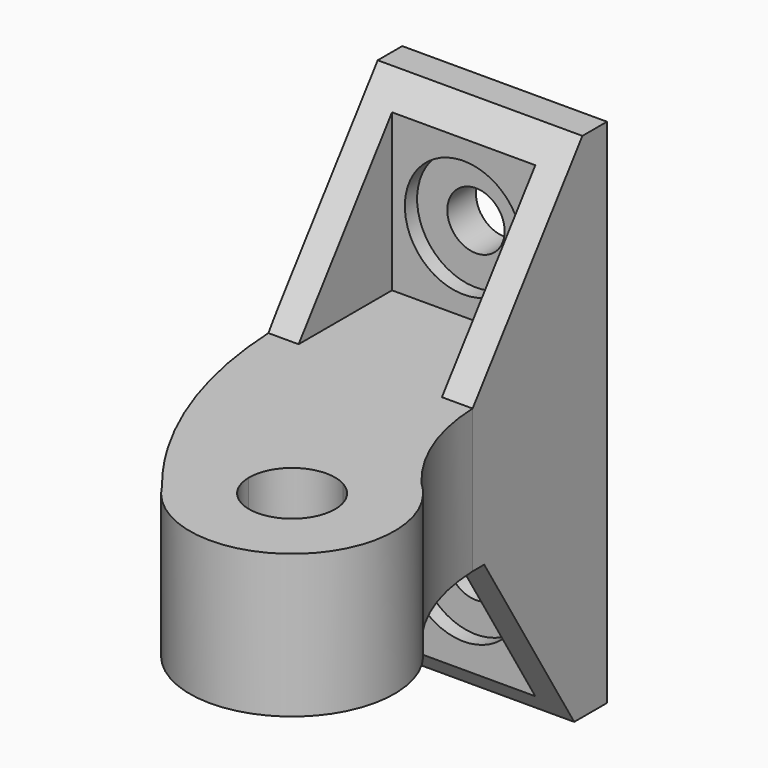
from build123d import *

# Parameters (mm, degrees)
F1_DEPTH  = 14
F2_W      = 3
F2_H      = 11.408352
F3_DEPTH  = 18
F5_DEPTH  = 25
F6_R      = 2.8
F7_DEPTH  = 25
F8_R      = 5.75
F9_DEPTH  = 1.5
F10_W     = 3
F10_H     = 9.991856
F11_DEPTH = 18
F13_DEPTH = 25
F14_R     = 2.8
F15_DEPTH = 25
F16_R     = 5.75
F17_DEPTH = 1.5


with BuildPart() as f1:
    # F0 (on Top) → F1 (new body)
    with BuildSketch(Plane.XY):
        with BuildLine():
            Line((-5.879243, 26.052212), (-25.879243, 26.052212))
            Line((-25.879243, 26.052212), (-25.879243, 11.060356))
            ThreePointArc((-25.879243, 11.060356), (-24.293036, 0.175264), (-19.988959, -9.947788))
            ThreePointArc((-19.988959, -9.947788), (-18.281685, -12.624792), (-16.380951, -15.168086))
            ThreePointArc((-16.380951, -15.168086), (-2.161149, -18.102259), (0, -3.744627))
            ThreePointArc((0, -3.744627), (-0.595324, -3.130936), (-1.163612, -2.492127))
            ThreePointArc((-1.163612, -2.492127), (-4.546963, 3.177378), (-5.879243, 9.64386))
            ThreePointArc((-5.879243, 9.64386), (-5.891908, 10.352108), (-5.879243, 11.060356))
            Line((-5.879243, 11.060356), (-5.879243, 26.052212))
        make_face()
        with BuildLine():
            ThreePointArc((-3.681243, -9.899788), (-7.857243, -14.099719), (-12.080969, -9.947788))
            ThreePointArc((-12.080969, -9.947788), (-10.050272, -6.303218), (-5.879243, -6.207635))
            ThreePointArc((-5.879243, -6.207635), (-4.272338, -7.751347), (-3.681243, -9.899788))
        make_face(mode=Mode.SUBTRACT)
        with BuildLine():
            Line((-5.879243, 9.64386), (-5.879243, 11.060356))
            ThreePointArc((-5.879243, 11.060356), (-5.891908, 10.352108), (-5.879243, 9.64386))
        make_face()
        with BuildLine():
            ThreePointArc((0, -3.744627), (-0.554991, -3.093465), (-1.163612, -2.492127))
            ThreePointArc((-1.163612, -2.492127), (-0.595324, -3.130936), (0, -3.744627))
        make_face()
        with BuildLine():
            Line((-5.879243, 26.052212), (-25.879243, 26.052212))
            Line((-25.879243, 26.052212), (-25.879243, 11.060356))
            ThreePointArc((-25.879243, 11.060356), (-24.293036, 0.175264), (-19.988959, -9.947788))
            ThreePointArc((-19.988959, -9.947788), (-18.281685, -12.624792), (-16.380951, -15.168086))
            ThreePointArc((-16.380951, -15.168086), (-2.161149, -18.102259), (0, -3.744627))
            ThreePointArc((0, -3.744627), (-0.595324, -3.130936), (-1.163612, -2.492127))
            ThreePointArc((-1.163612, -2.492127), (-4.546963, 3.177378), (-5.879243, 9.64386))
            ThreePointArc((-5.879243, 9.64386), (-5.891908, 10.352108), (-5.879243, 11.060356))
            Line((-5.879243, 11.060356), (-5.879243, 26.052212))
        make_face()
        with BuildLine():
            ThreePointArc((-3.681243, -9.899788), (-7.857243, -14.099719), (-12.080969, -9.947788))
            ThreePointArc((-12.080969, -9.947788), (-10.050272, -6.303218), (-5.879243, -6.207635))
            ThreePointArc((-5.879243, -6.207635), (-4.272338, -7.751347), (-3.681243, -9.899788))
        make_face(mode=Mode.SUBTRACT)
    extrude(amount=F1_DEPTH)

    # F2 (on face) → F3 (join)
    with BuildSketch(Plane.XY.offset(14)):
        Polygon((-5.879243, 26.052212), (-25.879243, 26.052212), (-25.879243, 21.052212), (-22.879243, 21.052212), (-8.879243, 21.052212), (-5.879243, 21.052212), align=None)
        with BuildLine():
            Line((-22.879243, 21.052212), (-25.879243, 21.052212))
            Line((-25.879243, 21.052212), (-25.879243, 11.060356))
            ThreePointArc((-25.879243, 11.060356), (-25.862016, 10.351917), (-25.83308, 9.64386))
            Line((-25.83308, 9.64386), (-22.879243, 9.64386))
            Line((-22.879243, 9.64386), (-22.879243, 21.052212))
        make_face()
        with Locations((-7.379243, 15.348036)):
            Rectangle(F2_W, F2_H)
    extrude(amount=F3_DEPTH)

    # F4 (on face) → F5 (cut)
    with BuildSketch(Plane.YZ.offset(-5.879243)):
        Polygon((9.64386, 14), (23.052212, 32), (9.64386, 32), align=None)
    extrude(amount=-F5_DEPTH, mode=Mode.SUBTRACT)

    # F6 (on face) → F7 (cut)
    with BuildSketch(Plane.XZ.offset(-21.052212)):
        with Locations((-15.879243, 21.657553)):
            Circle(F6_R)
    extrude(amount=-F7_DEPTH, mode=Mode.SUBTRACT)

    # F8 (on face) → F9 (cut)
    with BuildSketch(Plane.XZ.offset(-21.052212)):
        with Locations((-15.879243, 21.657553)):
            Circle(F8_R)
    extrude(amount=-F9_DEPTH, mode=Mode.SUBTRACT)

    # F10 (on face) → F11 (join)
    with BuildSketch(Plane(origin=(0, 0, 0), x_dir=(1, 0, 0), z_dir=(0, 0, -1))):
        with Locations((-24.379243, -16.056284)):
            Rectangle(F10_W, F10_H)
        Polygon((-25.879243, -21.052212), (-25.879243, -26.052212), (-5.879243, -26.052212), (-5.879243, -21.052212), (-8.879243, -21.052212), (-22.879243, -21.052212), align=None)
        with Locations((-7.379243, -16.056284)):
            Rectangle(F10_W, F10_H)
    extrude(amount=F11_DEPTH)

    # F12 (on face) → F13 (cut)
    with BuildSketch(Plane(origin=(-25.879243, 0, 0), x_dir=(0, -1, 0), z_dir=(-1, 0, 0))):
        Polygon((-11.060356, 0), (-22.052212, -18), (-11.060356, -18), align=None)
    extrude(amount=-F13_DEPTH, mode=Mode.SUBTRACT)

    # F14 (on face) → F15 (cut)
    with BuildSketch(Plane.XZ.offset(-21.052212)):
        with Locations((-15.879243, -8.181212)):
            Circle(F14_R)
    extrude(amount=-F15_DEPTH, mode=Mode.SUBTRACT)

    # F16 (on face) → F17 (cut)
    with BuildSketch(Plane.XZ.offset(-21.052212)):
        with Locations((-15.879243, -8.181212)):
            Circle(F16_R)
    extrude(amount=-F17_DEPTH, mode=Mode.SUBTRACT)


solid = f1.part
